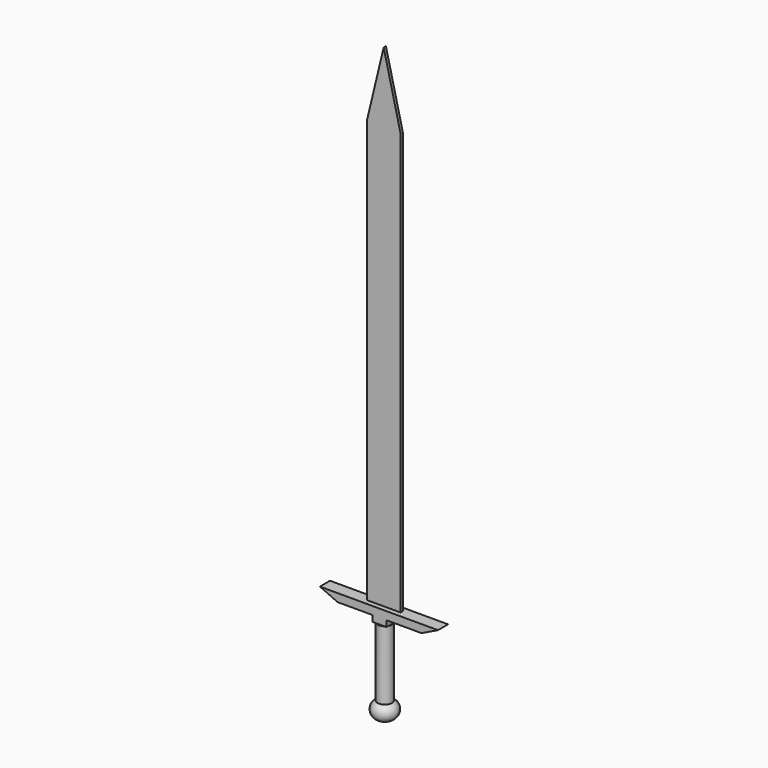
from build123d import *

# Parameters (mm, degrees)
F3_DEPTH      = 4.5
F3_DEPTH_BACK = 4.5
F5_DEPTH      = 1
F5_DEPTH_BACK = 1


with BuildPart() as f1:
    # F0 (on Front) → F1 (revolve)
    with BuildSketch(Plane.XZ):
        with BuildLine():
            Line((0, -64.4876323845), (0, -75.3519144174))
            ThreePointArc((0, -75.3519144174), (7.9800507436, -72.467683128), (5.0958194542, -64.4876323845))
            Line((5.0958194542, -64.4876323845), (0, -64.4876323845))
        make_face()
        with BuildLine():
            Line((0, -64.4876323845), (5.0958194542, -64.4876323845))
            ThreePointArc((5.0958194542, -64.4876323845), (2.5479097271, -63.9197734009), (0, -64.4876323845))
        make_face()
        with BuildLine():
            ThreePointArc((0, -64.4876323845), (2.5479097271, -63.9197734009), (5.0958194542, -64.4876323845))
            Line((5.0958194542, -64.4876323845), (5.0958194542, -15.4876323845))
            Line((5.0958194542, -15.4876323845), (0, -15.4876323845))
            Line((0, -15.4876323845), (0, -64.4876323845))
        make_face()
    revolve(axis=Axis((0, 0, -45.4197734009), (0, 0, -1)))


with BuildPart() as f3:
    # F2 (on Front) → F3 (new body, two sides)
    with BuildSketch(Plane.XZ) as f3_sk:
        Polygon((-5.1739003011, -10.9014402741), (-5.1739003011, -15.1805564427), (4.8633588309, -15.1805564427), (4.8633588309, -10.9038133803), (29.6818474308, -10.9038133803), (41.4314838126, -5.2384072915), (-42.5784168765, -5.2384072915), (-29.9939003011, -10.9014402741), align=None)
    extrude(amount=F3_DEPTH)
    extrude(f3_sk.sketch, amount=-F3_DEPTH_BACK)


with BuildPart() as f5:
    # F4 (on Front) → F5 (new body, two sides)
    with BuildSketch(Plane.XZ) as f5_sk:
        Polygon((-12, -5.1581816573), (0, -5.1581816573), (0, 344.8418183427), (-12, 294.8418183427), align=None)
        Polygon((0, 344.8418183427), (0, -5.1581816573), (12, -5.1581816573), (12, 294.8418183427), align=None)
    extrude(amount=F5_DEPTH)
    extrude(f5_sk.sketch, amount=-F5_DEPTH_BACK)


solid = Compound([f1.part, f3.part, f5.part])
